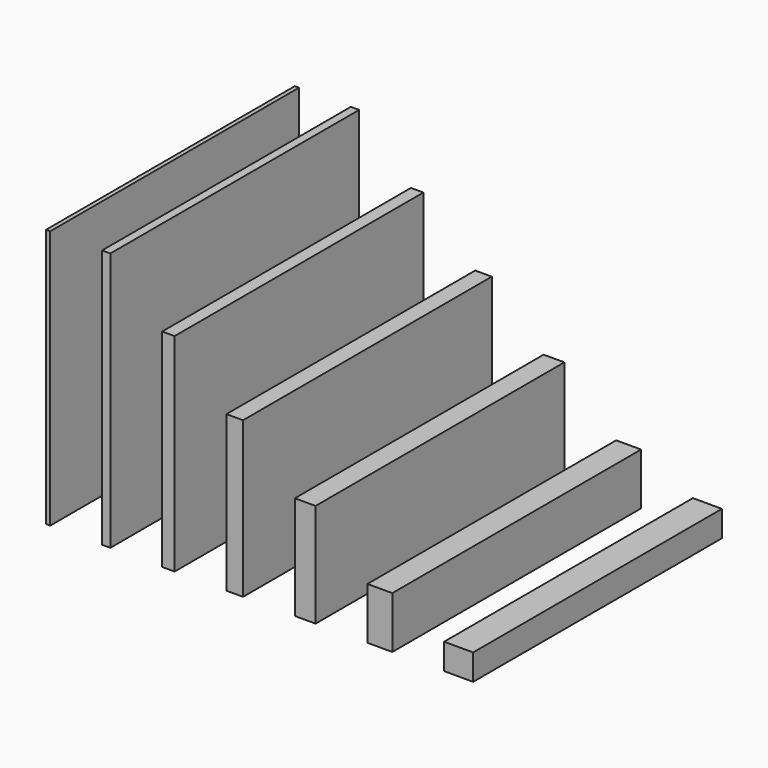
from build123d import *

# Parameters (mm, degrees)
F0_W     = 0.4
F0_H     = 30
F1_DEPTH = 25
F0_W_2   = 0.8
F2_DEPTH = 25
F0_W_3   = 1.2
F3_DEPTH = 20
F0_W_4   = 1.6
F4_DEPTH = 15
F0_W_5   = 2
F5_DEPTH = 10
F0_W_6   = 2.4
F6_DEPTH = 5
F0_W_7   = 2.8
F7_DEPTH = 2.5


with BuildPart() as f1:
    # F0 (on Top) → F1 (new body)
    with BuildSketch(Plane.XY):
        with Locations((-41, 15)):
            Rectangle(F0_W, F0_H)
    extrude(amount=F1_DEPTH)


with BuildPart() as f2:
    # F0 (on Top) → F2 (new body)
    with BuildSketch(Plane.XY):
        with Locations((-35.4, 15)):
            Rectangle(F0_W_2, F0_H)
    extrude(amount=F2_DEPTH)


with BuildPart() as f3:
    # F0 (on Top) → F3 (new body)
    with BuildSketch(Plane.XY):
        with Locations((-29.4, 15)):
            Rectangle(F0_W_3, F0_H)
    extrude(amount=F3_DEPTH)


with BuildPart() as f4:
    # F0 (on Top) → F4 (new body)
    with BuildSketch(Plane.XY):
        with Locations((-23, 15)):
            Rectangle(F0_W_4, F0_H)
    extrude(amount=F4_DEPTH)


with BuildPart() as f5:
    # F0 (on Top) → F5 (new body)
    with BuildSketch(Plane.XY):
        with Locations((-16.2, 15)):
            Rectangle(F0_W_5, F0_H)
    extrude(amount=F5_DEPTH)


with BuildPart() as f6:
    # F0 (on Top) → F6 (new body)
    with BuildSketch(Plane.XY):
        with Locations((-9, 15)):
            Rectangle(F0_W_6, F0_H)
    extrude(amount=F6_DEPTH)


with BuildPart() as f7:
    # F0 (on Top) → F7 (new body)
    with BuildSketch(Plane.XY):
        with Locations((-1.4, 15)):
            Rectangle(F0_W_7, F0_H)
    extrude(amount=F7_DEPTH)


solid = Compound([f1.part, f2.part, f3.part, f4.part, f5.part, f6.part, f7.part])
